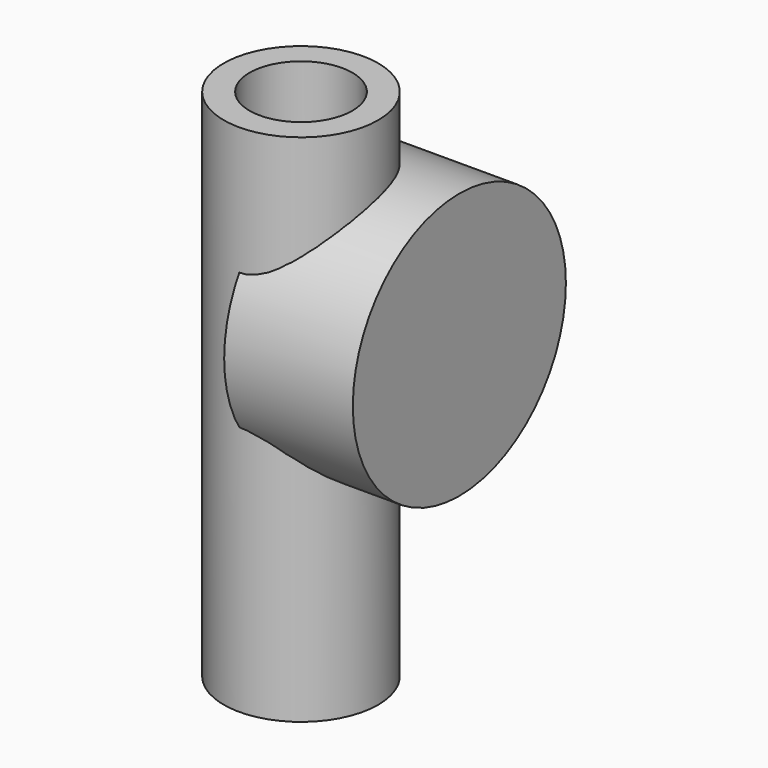
from build123d import *

# Parameters (mm, degrees)
F0_R     = 15
F1_DEPTH = 100
F3_R     = 10
F4_DEPTH = 100
F5_R     = 25.87329
F6_DEPTH = 25


with BuildPart() as f1:
    # F0 (on Top) → F1 (new body)
    with BuildSketch(Plane.XY):
        Circle(F0_R)
    extrude(amount=F1_DEPTH)

    # F3 (on face) → F4 (cut, through all)
    with BuildSketch(Plane.XY.offset(100)):
        Circle(F3_R)
    extrude(amount=-F4_DEPTH, mode=Mode.SUBTRACT)


with BuildPart() as f6:
    # F5 (on Right) → F6 (new body)
    with BuildSketch(Plane.YZ):
        with Locations((7.217973, 61.916694)):
            Circle(F5_R)
    extrude(amount=F6_DEPTH)


solid = Compound([f1.part, f6.part])
